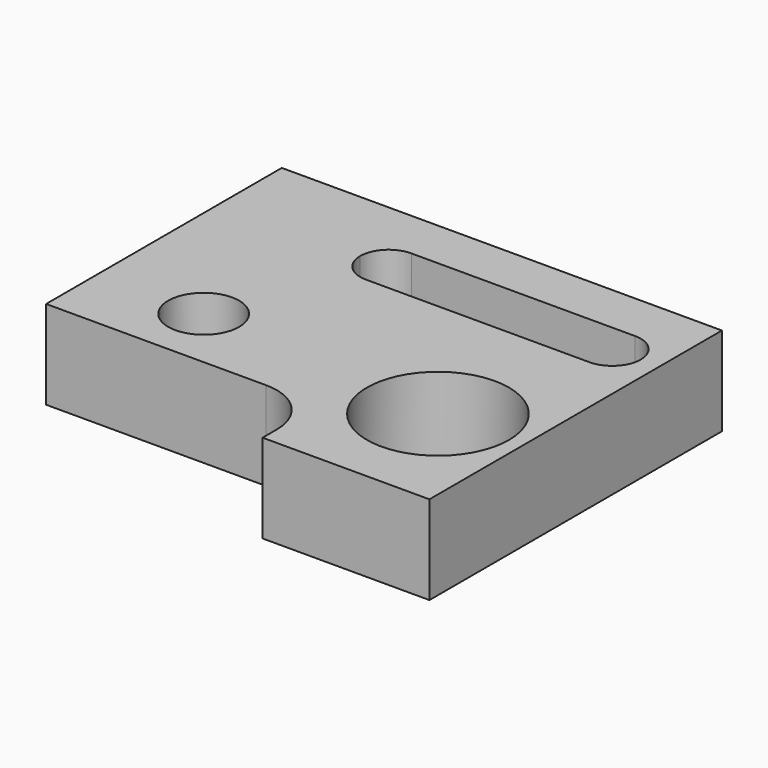
from build123d import *

# Parameters (mm, degrees)
F0_R     = 20
F1_DEPTH = 25


with BuildPart() as f1:
    # F0 (on Top) → F1 (new body)
    with BuildSketch(Plane.XY):
        with Locations((44.489244, -18.895161)):
            Circle(F0_R)
        with BuildLine():
            ThreePointArc((-15.510756, -13.895161), (-32.581823, -6.824093), (-25.510756, -23.895161))
            ThreePointArc((-25.510756, -23.895161), (-18.439688, -20.966228), (-15.510756, -13.895161))
        make_face()
        with BuildLine():
            Line((21.489244, -51.895161), (68.489244, -51.895161))
            Line((68.489244, -51.895161), (68.489244, -18.895161))
            Line((68.489244, -18.895161), (68.489244, 51.104839))
            Line((68.489244, 51.104839), (63.193549, 51.104839))
            Line((63.193549, 51.104839), (-55.510756, 51.104839))
            Line((-55.510756, 51.104839), (-55.510756, -31.895161))
            Line((-55.510756, -31.895161), (-25.510756, -31.895161))
            Line((-25.510756, -31.895161), (6.489244, -31.895161))
            ThreePointArc((6.489244, -31.895161), (17.095846, -36.288559), (21.489244, -46.895161))
            Line((21.489244, -46.895161), (21.489244, -51.895161))
        make_face()
        with BuildLine():
            ThreePointArc((-15.510756, -13.895161), (-18.439688, -20.966228), (-25.510756, -23.895161))
            ThreePointArc((-25.510756, -23.895161), (-32.581823, -6.824093), (-15.510756, -13.895161))
        make_face(mode=Mode.SUBTRACT)
        with Locations((44.489244, -18.895161)):
            Circle(F0_R, mode=Mode.SUBTRACT)
        with BuildLine():
            ThreePointArc((63.193549, 29.104839), (60.850403, 23.447985), (55.193549, 21.104839))
            Line((55.193549, 21.104839), (-7.806451, 21.104839))
            ThreePointArc((-7.806451, 21.104839), (-13.463306, 23.447985), (-15.806451, 29.104839))
            ThreePointArc((-15.806451, 29.104839), (-13.463306, 34.761694), (-7.806451, 37.104839))
            Line((-7.806451, 37.104839), (55.193549, 37.104839))
            ThreePointArc((55.193549, 37.104839), (60.850403, 34.761694), (63.193549, 29.104839))
        make_face(mode=Mode.SUBTRACT)
    extrude(amount=F1_DEPTH)


solid = f1.part
